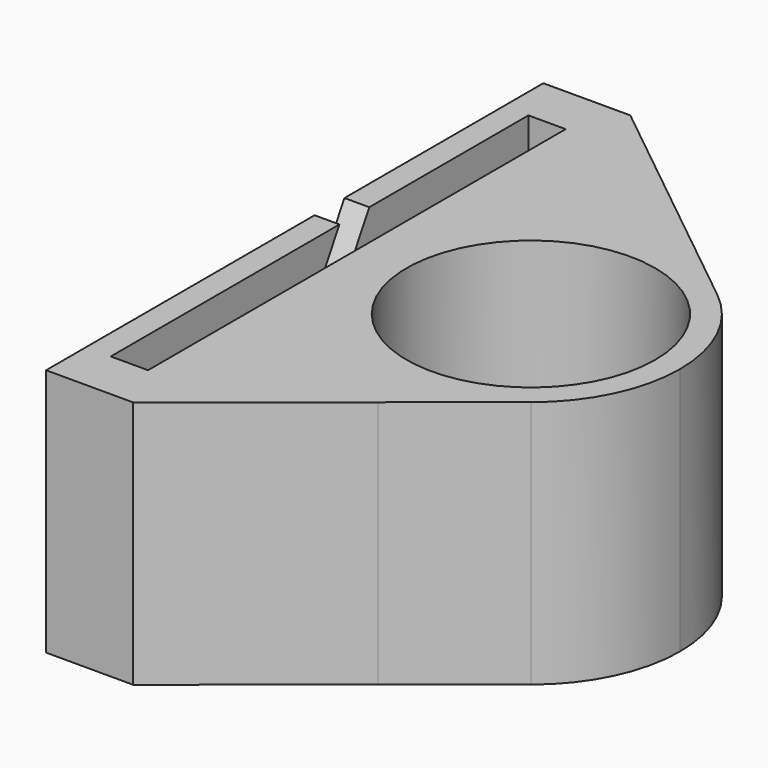
from build123d import *

# Parameters (mm, degrees)
F0_R     = 10
F1_DEPTH = 20
F2_DEPTH = 7
F3_W     = 3
F3_H     = 42
F4_DEPTH = 20.001
F6_DEPTH = 2


with BuildPart() as f1:
    # F0 (on Top) → F1 (new body)
    with BuildSketch(Plane.XY):
        with BuildLine():
            ThreePointArc((-12, 0), (-5.192772811, 10.8182766896), (7.5058517555, 9.3628088427))
            Line((7.5058517555, 9.3628088427), (-12, 25))
            Line((-12, 25), (-12, 0))
        make_face()
        with BuildLine():
            ThreePointArc((7.5058517555, -9.3628088427), (10.8182766896, -5.192772811), (12, 0))
            ThreePointArc((12, 0), (10.8182766896, 5.192772811), (7.5058517555, 9.3628088427))
            ThreePointArc((7.5058517555, 9.3628088427), (-5.192772811, 10.8182766896), (-12, 0))
            ThreePointArc((-12, 0), (-5.192772811, -10.8182766896), (7.5058517555, -9.3628088427))
        make_face()
        Circle(F0_R, mode=Mode.SUBTRACT)
        with BuildLine():
            Line((0, -15.38), (7.5058517555, -9.3628088427))
            ThreePointArc((7.5058517555, -9.3628088427), (-5.192772811, -10.8182766896), (-12, 0))
            Line((-12, 0), (-12, -25))
            Line((-12, -25), (0, -15.38))
        make_face()
    extrude(amount=F1_DEPTH)

    # F2 (add): a face of the model
    f2_faces = [f1.faces().sort_by_distance(p)[0] for p in [
        (-12, 0, 10),
    ]]
    extrude(f2_faces, amount=F2_DEPTH)

    # F3 (on face) → F4 (cut, through all)
    with BuildSketch(Plane.XY.offset(20)):
        with Locations((-15.5, 0)):
            Rectangle(F3_W, F3_H)
    extrude(amount=-F4_DEPTH, mode=Mode.SUBTRACT)

    # F5 (on face) → F6 (cut, through all)
    with BuildSketch(Plane(origin=(-19, 0, 0), x_dir=(0, -1, 0), z_dir=(-1, 0, 0))):
        Polygon((6.5470053838, 0), (9.5470053838, 0), (-2, 20), (-5, 20), align=None)
    extrude(amount=-F6_DEPTH, mode=Mode.SUBTRACT)


solid = f1.part
